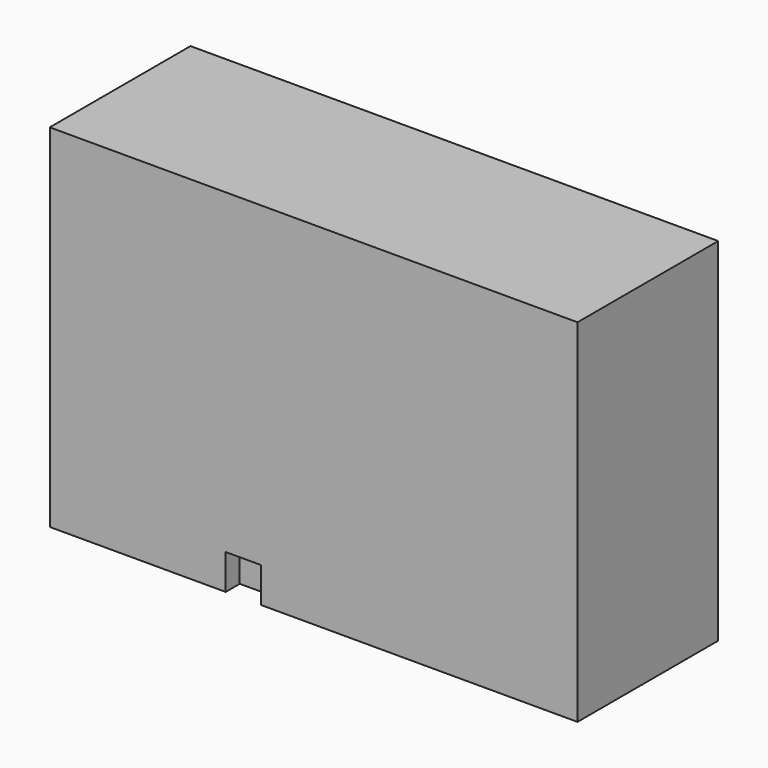
from build123d import *

# Parameters (mm, degrees)
F0_W     = 1200
F0_H     = 400
F2_DEPTH = 800
F1_W     = 80
F1_H     = 40
F3_DEPTH = 80


with BuildPart() as f2:
    # F0 (on Top) → F2 (new body)
    with BuildSketch(Plane.XY):
        with Locations((600, 200)):
            Rectangle(F0_W, F0_H)
    extrude(amount=F2_DEPTH)

    # F1 (on Top) → F3 (cut)
    with BuildSketch(Plane.XY):
        with Locations((440, 20)):
            Rectangle(F1_W, F1_H)
    extrude(amount=F3_DEPTH, mode=Mode.SUBTRACT)


solid = f2.part
